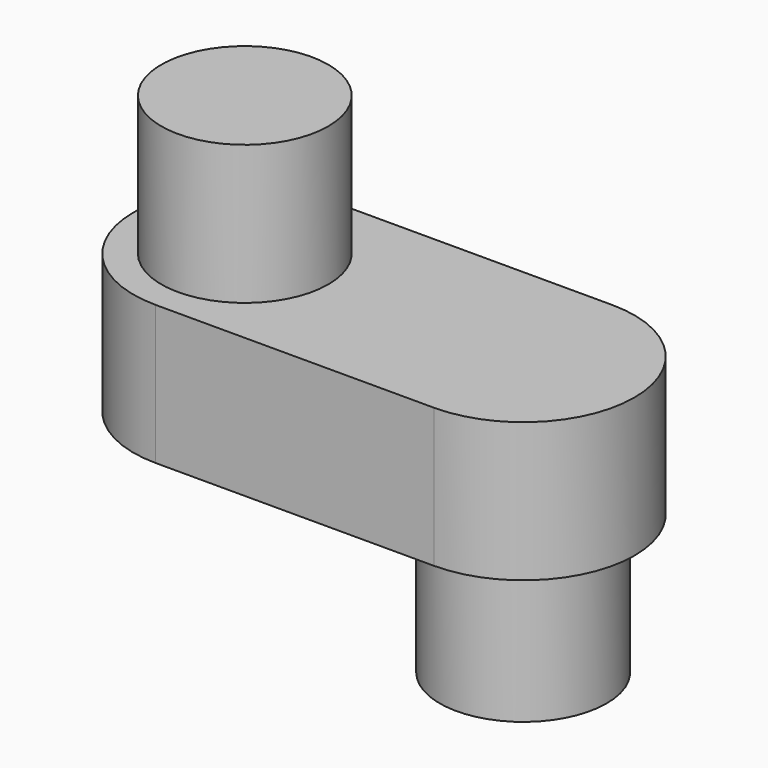
from build123d import *

# Parameters (mm, degrees)
F1_DEPTH = 5
F2_R     = 3
F3_DEPTH = 5
F4_R     = 3
F5_DEPTH = 5


with BuildPart() as f1:
    # F0 (on Top) → F1 (new body)
    with BuildSketch(Plane.XY):
        with BuildLine():
            ThreePointArc((0, 4), (-4, 0), (0, -4))
            Line((0, -4), (10, -4))
            ThreePointArc((10, -4), (14, 0), (10, 4))
            Line((10, 4), (0, 4))
        make_face()
    extrude(amount=F1_DEPTH)

    # F2 (on face) → F3 (join)
    with BuildSketch(Plane.XY.offset(5)):
        Circle(F2_R)
    extrude(amount=F3_DEPTH)

    # F4 (on face) → F5 (join)
    with BuildSketch(Plane(origin=(0, 0, 0), x_dir=(1, 0, 0), z_dir=(0, 0, -1))):
        with Locations((10, 0)):
            Circle(F4_R)
    extrude(amount=F5_DEPTH)


solid = f1.part
